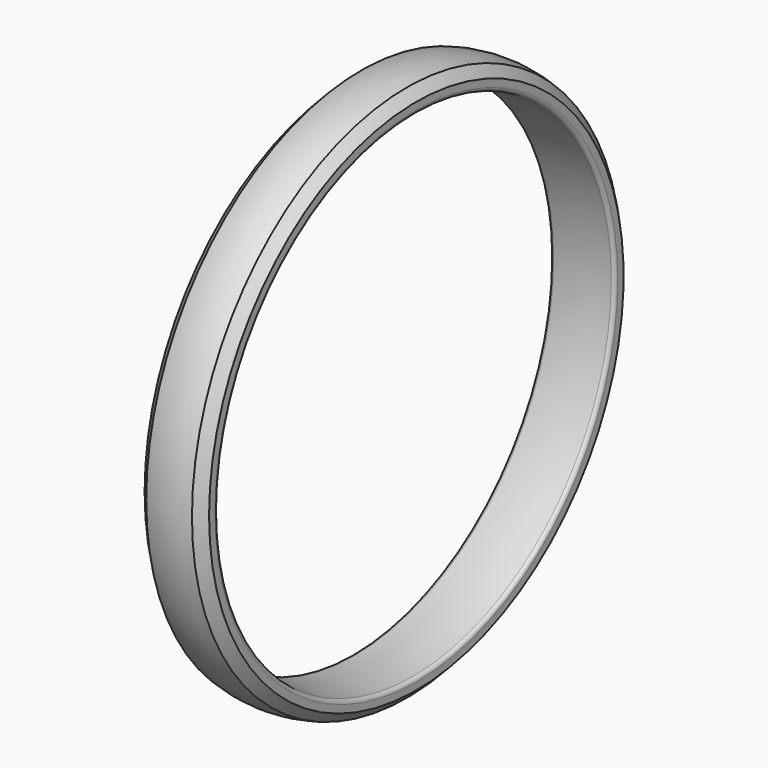
from build123d import *


with BuildPart() as part:
    # Sketch → Revolution (revolve)
    with BuildSketch(Plane.XY):
        with BuildLine():
            Line((250, -976.548789), (250, -1004.92))
            Line((250, -1004.92), (213.710075, -1042.499334))
            ThreePointArc((36.289925, -1042.499334), (125, -1054.92), (213.710075, -1042.499334))
            Line((0, -1004.92), (36.289925, -1042.499334))
            Line((0, -976.548789), (0, -1004.92))
            ThreePointArc((13.19869, -961.657339), (3.77459, -966.599408), (0, -976.548789))
            ThreePointArc((236.80131, -961.657339), (125, -954.92), (13.19869, -961.657339))
            ThreePointArc((250, -976.548789), (246.22541, -966.599408), (236.80131, -961.657339))
        make_face()
    revolve(axis=Axis((0, 0, 0), (1, 0, 0)))


solid = part.part
